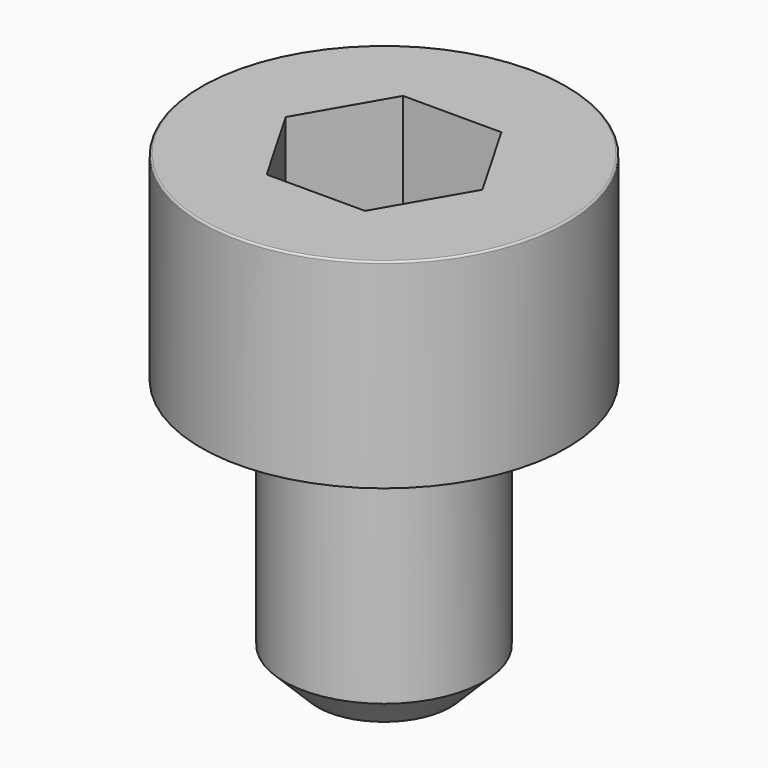
from build123d import *

# Parameters (mm, degrees)
POCKET_DEPTH = 2.56


with BuildPart() as part:
    # Sketch → Revolve (revolve)
    with BuildSketch(Plane.YZ):
        with BuildLine():
            Line((1.499, 0), (2.75, 0))
            Line((2.75, 0), (2.75, 2.97229))
            ThreePointArc((2.75, 2.97229), (2.741884, 2.991884), (2.72229, 3))
            Line((2.72229, 3), (0, 3))
            Line((0, -4), (0, 3))
            Line((1, -4), (0, -4))
            Line((1.5, -3.5), (1, -4))
            Line((1.5, -0.2), (1.5, -3.5))
            Line((1.499, 0), (1.5, -0.2))
        make_face()
    revolve(axis=Axis((0, 0, 0), (0, 0, 1)))

    # Sketch001 → Pocket (cut)
    with BuildSketch(Plane.XY.offset(3)):
        Polygon((1.478017, 0), (0.739008, 1.28), (-0.739008, 1.28), (-1.478017, 0), (-0.739008, -1.28), (0.739008, -1.28), align=None)
    extrude(amount=-POCKET_DEPTH, mode=Mode.SUBTRACT)


solid = part.part
